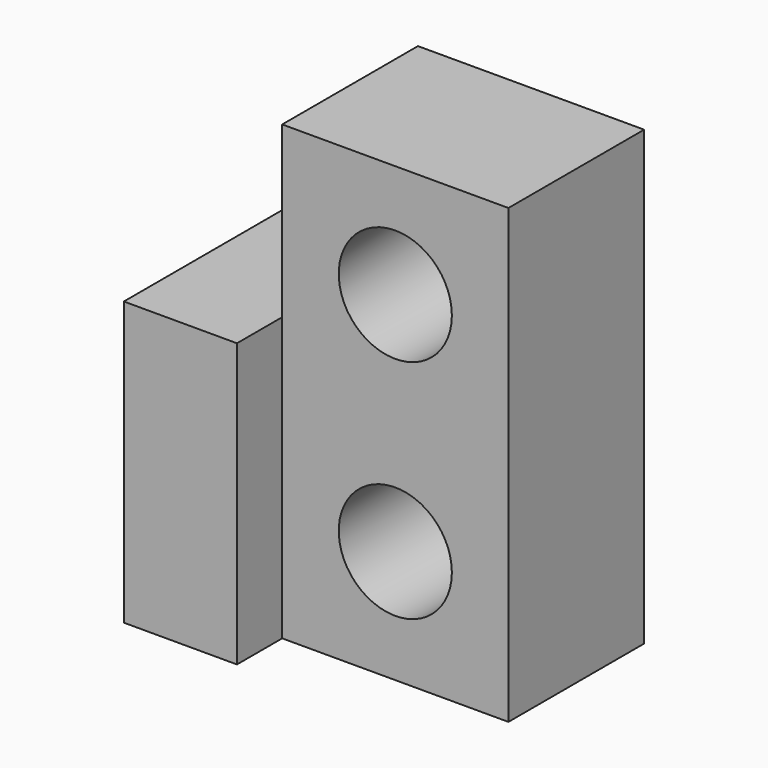
from build123d import *

# Parameters (mm, degrees)
F0_R     = 5
F1_DEPTH = 15
F0_W     = 10
F0_H     = 25
F2_DEPTH = 20
F3_R     = 5
F4_DEPTH = 25


with BuildPart() as f1:
    # F0 (on Front) → F1 (new body)
    with BuildSketch(Plane.XZ):
        Polygon((10, 20), (-10, 20), (-10, 5), (-10, -20), (10, -20), align=None)
        with Locations((0, -10)):
            Circle(F0_R, mode=Mode.SUBTRACT)
    extrude(amount=F1_DEPTH)

    # F0 (on Front) → F2 (join)
    with BuildSketch(Plane.XZ):
        with Locations((-15, -7.5)):
            Rectangle(F0_W, F0_H)
    extrude(amount=F2_DEPTH)

    # F3 (on face) → F4 (cut)
    with BuildSketch(Plane.XZ.offset(15)):
        with Locations((0, 10)):
            Circle(F3_R)
    extrude(amount=-F4_DEPTH, mode=Mode.SUBTRACT)


solid = f1.part
